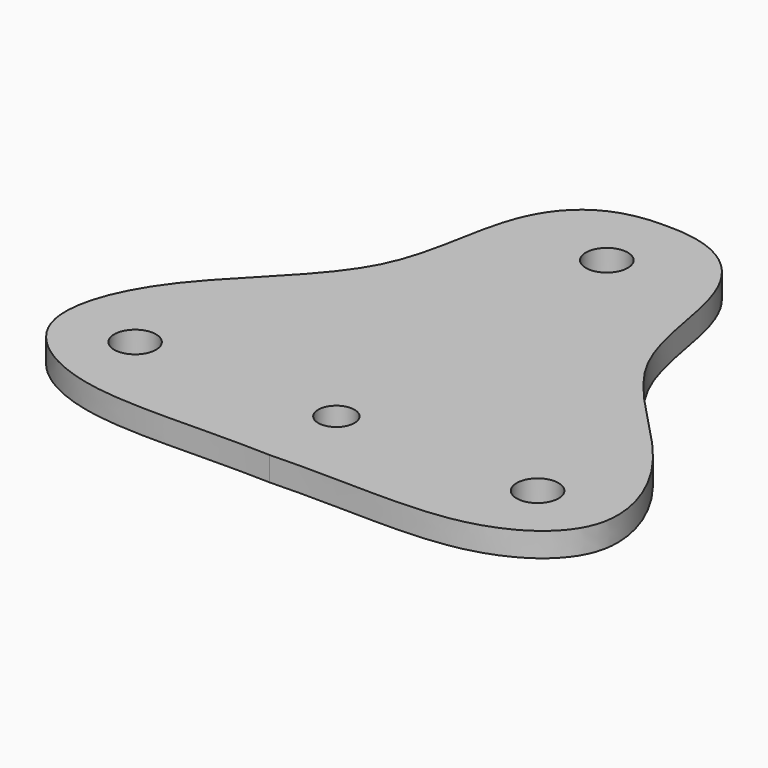
from build123d import *

# Parameters (mm, degrees)
F0_R     = 2.6
F0_R_2   = 2.25
F1_DEPTH = 3


with BuildPart() as f1:
    # F0 (on Top) → F1 (new body)
    with BuildSketch(Plane.XY):
        with BuildLine():
            add(Edge.make_bspline(
                [(12.4628519006, 13.6780394241), (19.4407593717, 13.8331027583), (26.7452298575, 6.7324317401), (26.3128940789, -11.5322055726), (43.6181419579, -24.266116276), (49.2919868937, -40.2839782528), (35.8826429609, -49.4228751578), (22.1731135653, -47.6006929448), (12.4628519006, -47.95422405)],
                knots=[0, 0, 0, 0, 0.1549555961, 0.3196507615, 0.5052578789, 0.6577917534, 0.7998356316, 1, 1, 1, 1], degree=3))
            add(Edge.make_bspline(
                [(12.4628519006, 13.6780394241), (5.4849444295, 13.8331027583), (-1.8195260563, 6.7324317401), (-1.3871902777, -11.5322055726), (-18.6924381567, -24.266116276), (-24.3662830925, -40.2839782528), (-10.9569391597, -49.4228751578), (2.7525902359, -47.6006929448), (12.4628519006, -47.95422405)],
                knots=[0, 0, 0, 0, 0.1549555961, 0.3196507615, 0.5052578789, 0.6577917534, 0.7998356316, 1, 1, 1, 1], degree=3))
        make_face()
        with Locations((-12.5371480994, -37.5717511536)):
            Circle(F0_R, mode=Mode.SUBTRACT)
        with Locations((12.4628519006, -37.5717511536)):
            Circle(F0_R_2, mode=Mode.SUBTRACT)
        with Locations((37.4628519006, -37.5717511536)):
            Circle(F0_R, mode=Mode.SUBTRACT)
        with Locations((12.4628519006, 4.4282488464)):
            Circle(F0_R, mode=Mode.SUBTRACT)
    extrude(amount=F1_DEPTH)


solid = f1.part
